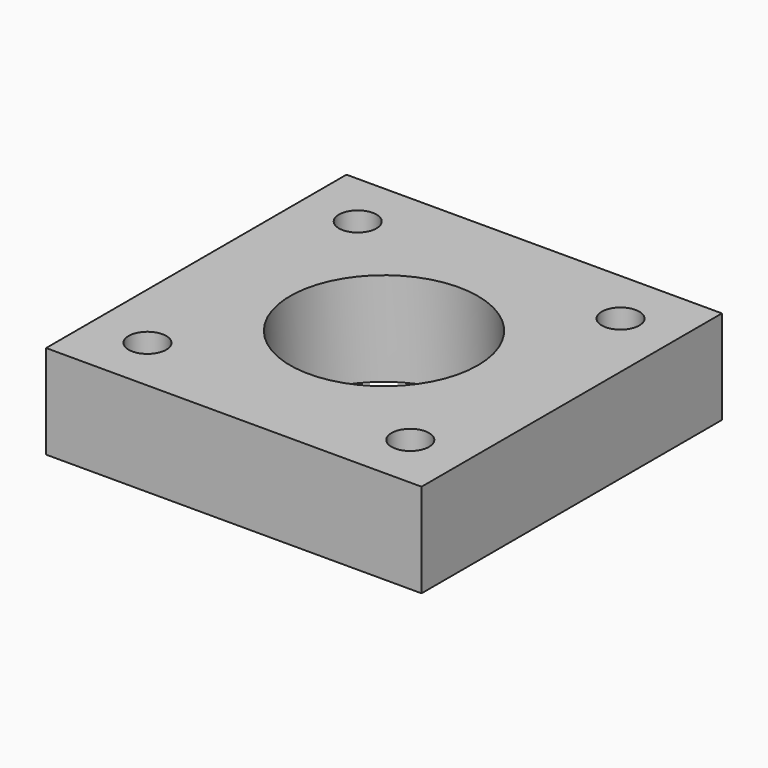
from build123d import *

# Parameters (mm, degrees)
F0_W     = 50.8
F0_H     = 50.8
F1_DEPTH = 12.7
F2_R     = 2.54
F2_R_2   = 12.7
F3_DEPTH = 25.146


with BuildPart() as f1:
    # F0 (on Top) → F1 (new body)
    with BuildSketch(Plane.XY):
        Rectangle(F0_W, F0_H)
    extrude(amount=F1_DEPTH)

    # F2 (on face) → F3 (cut)
    with BuildSketch(Plane.XY.offset(12.7)):
        with Locations((17.78, 17.78)):
            Circle(F2_R)
        with Locations((17.78, -17.78)):
            Circle(F2_R)
        with Locations((-17.78, 17.78)):
            Circle(F2_R)
        with Locations((-17.78, -17.78)):
            Circle(F2_R)
        Circle(F2_R_2)
    extrude(amount=-F3_DEPTH, mode=Mode.SUBTRACT)


solid = f1.part
